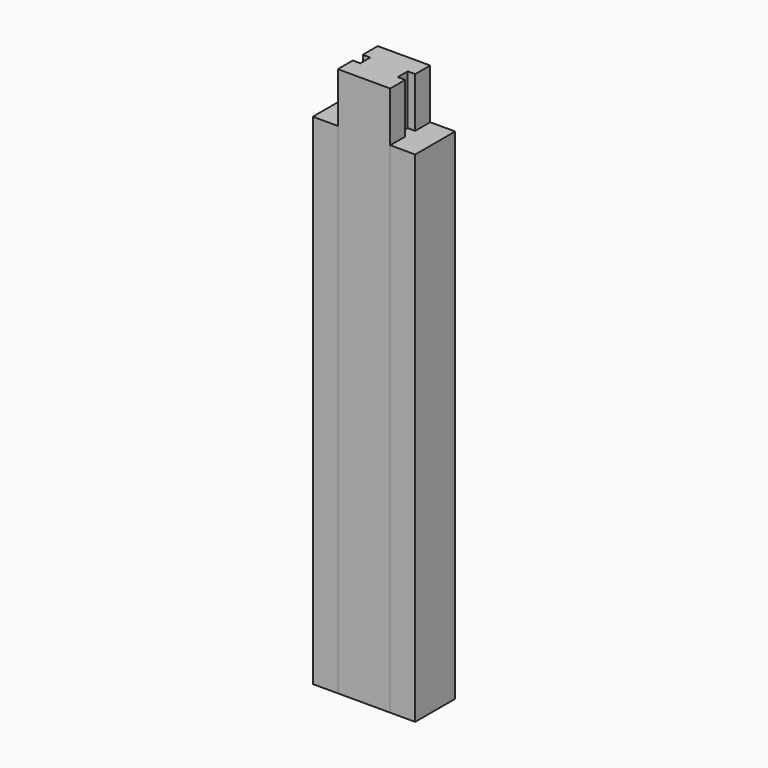
from build123d import *

# Parameters (mm, degrees)
F0_R     = 12.7
F1_DEPTH = 254
F2_W     = 3.81
F2_H     = 6.35
F3_DEPTH = 254
F2_W_2   = 19.05
F2_H_2   = 4.7625
F4_DEPTH = 279.4


with BuildPart() as f1:
    # F0 (on Top) → F1 (new body)
    with BuildSketch(Plane.XY):
        Circle(F0_R)
    extrude(amount=F1_DEPTH)


with BuildPart() as f3:
    # F2 (on Top) → F3 (new body)
    with BuildSketch(Plane.XY):
        Polygon((-13.335, -12.7), (-13.335, -3.175), (-13.335, 3.175), (-13.335, 12.7), (-26.035, 12.7), (-26.035, -12.7), align=None)
        with Locations((-11.43, 0)):
            Rectangle(F2_W, F2_H)
        with Locations((11.43, 0)):
            Rectangle(F2_W, F2_H)
        Polygon((13.335, 3.175), (13.335, -3.175), (13.335, -12.7), (26.035, -12.7), (26.035, 12.7), (13.335, 12.7), align=None)
    extrude(amount=F3_DEPTH)


with BuildPart() as f4:
    # F2 (on Top) → F4 (new body)
    with BuildSketch(Plane.XY):
        Polygon((9.525, 7.9375), (9.525, 3.175), (13.335, 3.175), (13.335, 12.7), (-13.335, 12.7), (-13.335, 3.175), (-9.525, 3.175), (-9.525, 7.9375), align=None)
        with Locations((0, 5.55625)):
            Rectangle(F2_W_2, F2_H_2)
        Rectangle(F2_W_2, F2_H)
        with Locations((0, -5.55625)):
            Rectangle(F2_W_2, F2_H_2)
        Polygon((9.525, -3.175), (9.525, -7.9375), (-9.525, -7.9375), (-9.525, -3.175), (-13.335, -3.175), (-13.335, -12.7), (13.335, -12.7), (13.335, -3.175), align=None)
    extrude(amount=F4_DEPTH)


solid = Compound([f1.part, f3.part, f4.part])
